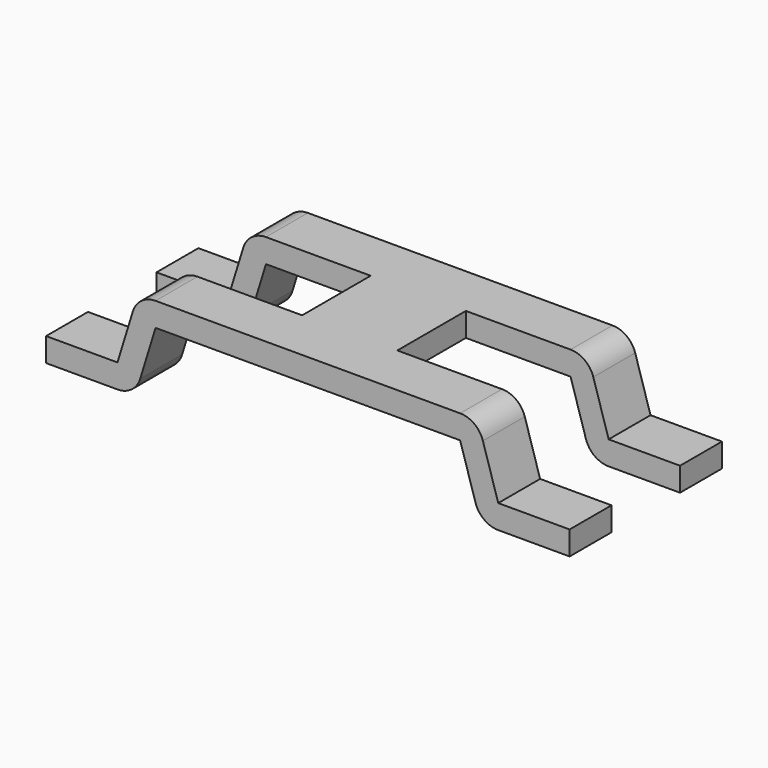
from build123d import *

# Parameters (mm, degrees)
PAD020_DEPTH         = 2
SKETCH013_W          = 5
SKETCH013_H          = 1.8
POCKET006_DEPTH      = 23.716818
POCKET006_DEPTH_BACK = 25.616818


with BuildPart() as part:
    # Sketch037 → Pad020 (new body, symmetric)
    with BuildSketch(Plane.XZ):
        with BuildLine():
            Line((0, 1.9), (3.2, 1.9))
            ThreePointArc((3.677897, 1.547019), (3.497061, 1.802188), (3.2, 1.9))
            Line((4, 0.5), (3.677897, 1.547019))
            Line((4, 0.5), (5.5, 0.5))
            Line((5.5, 0.5), (5.5, 0))
            Line((5.5, 0), (4, 0))
            ThreePointArc((3.522103, 0.352981), (3.702939, 0.097812), (4, 0))
            Line((3.2, 1.4), (3.522103, 0.352981))
            Line((3.2, 1.4), (0, 1.4))
            Line((0, 1.4), (0, 1.9))
        make_face()
    pad020 = extrude(amount=PAD020_DEPTH, both=True)

    # Mirrored007: Pad020 across YZ
    add(pad020.mirror(Plane.YZ))

    # Sketch013 → Pocket006 (cut, two sides)
    with BuildSketch(Plane.XY) as pocket006_sk:
        with Locations((3.5, 0)):
            Rectangle(SKETCH013_W, SKETCH013_H)
    pocket006 = extrude(amount=-POCKET006_DEPTH, mode=Mode.SUBTRACT) + extrude(pocket006_sk.sketch, amount=POCKET006_DEPTH_BACK, mode=Mode.SUBTRACT)

    # Mirrored008: Pocket006 across YZ
    add(pocket006.mirror(Plane.YZ), mode=Mode.SUBTRACT)


with BuildPart() as part_1:
    # Body008 placement: moved
    add(part.part.moved(Location((0, 29.75, 0))))


solid = part_1.part
